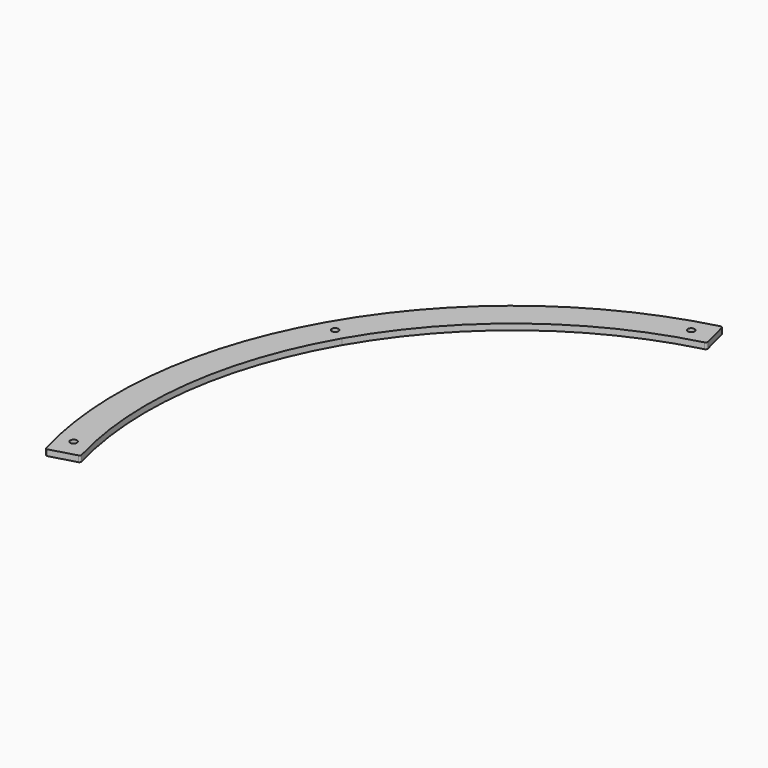
from build123d import *

# Parameters (mm, degrees)
PAD015_DEPTH                        = 3
SKETCH054_R                         = 1.7
POCKET018_DEPTH                     = 0.001
POCKET018_DEPTH_BACK                = 3.001
BODY001003005003004_PLACEMENT_ANGLE = 60


with BuildPart() as part:
    # Sketch053 → Pad015 (new body)
    with BuildSketch(Plane.XY):
        with BuildLine():
            Line((0, 182.848457), (0, 197.848457))
            ThreePointArc((141.077868, 138.712102), (76.485413, 182.466418), (0, 197.848457))
            ThreePointArc((141.062279, 137.294387), (141.364747, 138.000004), (141.077868, 138.712102))
            Line((131.746186, 128.227134), (141.062279, 137.294387))
            ThreePointArc((130.335906, 128.242388), (131.037899, 127.943805), (131.746186, 128.227134))
            ThreePointArc((130.335906, 128.242388), (70.656336, 168.64531), (0, 182.848457))
        make_face()
    pad015 = extrude(amount=PAD015_DEPTH)

    # Mirrored020: Pad015 across Sketch053 V_Axis
    add(pad015.mirror(Plane(origin=(0, 0, 0), x_dir=(0, 0, 1), z_dir=(1, 0, 0))))

    # Sketch054 → Pocket018 (cut, two sides)
    with BuildSketch(Plane.XY) as pocket018_sk:
        with Locations((129.243686, 139.741203)):
            Circle(SKETCH054_R)
        with Locations((0, 190.345828)):
            Circle(SKETCH054_R)
        with Locations((-129.243686, 139.741203)):
            Circle(SKETCH054_R)
    extrude(amount=-POCKET018_DEPTH, mode=Mode.SUBTRACT)
    extrude(pocket018_sk.sketch, amount=POCKET018_DEPTH_BACK, mode=Mode.SUBTRACT)


with BuildPart() as part_1:
    # Body001003005003004 placement: moved
    add(part.part.rotate(Axis((0, 0, 0), (0, 0, 1)), BODY001003005003004_PLACEMENT_ANGLE))


solid = part_1.part
